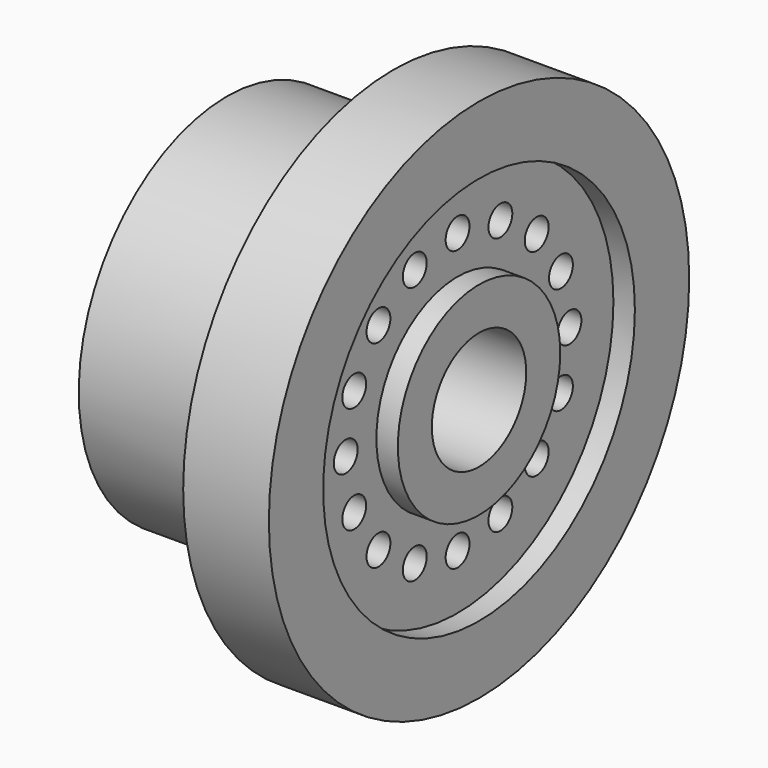
from build123d import *

# Parameters (mm, degrees)
F2_R     = 35.907652
F2_R_2   = 18.709926
F3_DEPTH = 3.95508
F4_R     = 2.749
F5_DEPTH = 47


with BuildPart() as f1:
    # F0 (on Front) → F1 (revolve)
    with BuildSketch(Plane.XZ):
        Polygon((-56.319889, 0), (-51.850058, 0), (-51.850058, 10.876591), (0, 10.876591), (0, 48.423186), (-15.793407, 48.423186), (-12.515531, 44.251341), (-19.667262, 34.119722), (-46.486259, 34.119722), (-46.486259, 16.53838), (-56.319889, 16.53838), align=None)
    revolve(axis=Axis((-0.162292, 0, 0), (1, 0, 0)))

    # F2 (on face) → F3 (cut)
    with BuildSketch(Plane.YZ):
        Circle(F2_R)
        Circle(F2_R_2, mode=Mode.SUBTRACT)
    extrude(amount=-F3_DEPTH, mode=Mode.SUBTRACT)

    # F4 (on face) → F5 (cut)
    with BuildSketch(Plane.YZ.offset(-3.95508)):
        with Locations((0, 25.776034)):
            Circle(F4_R)
        with Locations((-9.864061, 23.81395)):
            Circle(F4_R)
        with Locations((-18.226409, 18.226409)):
            Circle(F4_R)
        with Locations((-23.81395, 9.864061)):
            Circle(F4_R)
        with Locations((-25.776034, 0)):
            Circle(F4_R)
        with Locations((-23.81395, -9.864061)):
            Circle(F4_R)
        with Locations((-18.226409, -18.226409)):
            Circle(F4_R)
        with Locations((-9.864061, -23.81395)):
            Circle(F4_R)
        with Locations((0, -25.776034)):
            Circle(F4_R)
        with Locations((9.864061, -23.81395)):
            Circle(F4_R)
        with Locations((18.226409, -18.226409)):
            Circle(F4_R)
        with Locations((23.81395, -9.864061)):
            Circle(F4_R)
        with Locations((25.776034, 0)):
            Circle(F4_R)
        with Locations((23.81395, 9.864061)):
            Circle(F4_R)
        with Locations((18.226409, 18.226409)):
            Circle(F4_R)
        with Locations((9.864061, 23.81395)):
            Circle(F4_R)
    extrude(amount=-F5_DEPTH, mode=Mode.SUBTRACT)


solid = f1.part
